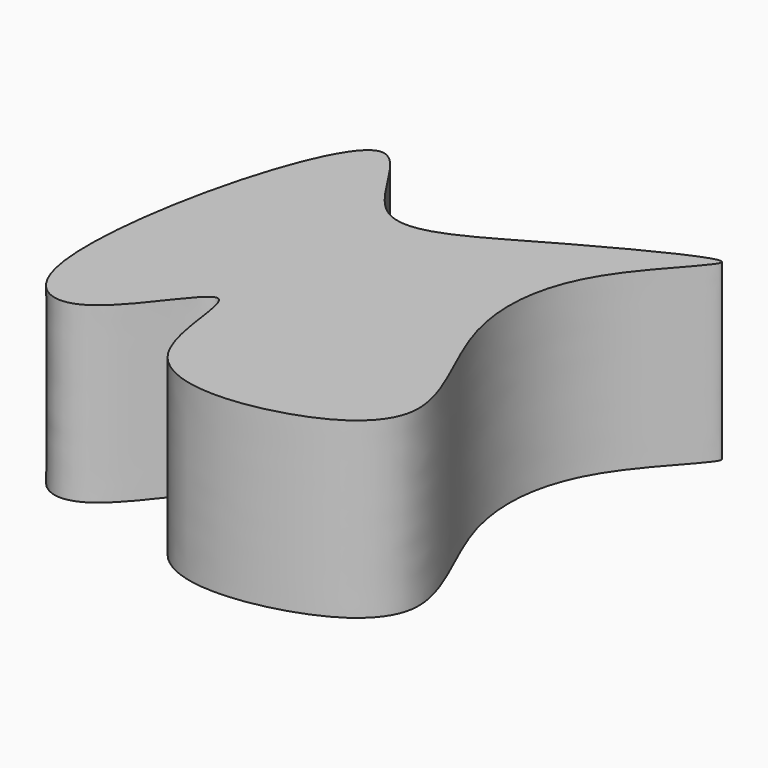
from build123d import *

# Parameters (mm, degrees)
F1_DEPTH = 50


with BuildPart() as f1:
    # F0 (on Top) → F1 (new body)
    with BuildSketch(Plane.XY):
        with BuildLine():
            add(Edge.make_bspline(
                [(-39.6801382303, 56.0800656676), (-51.2799219305, 53.0965431104), (-73.324921164, -38.0400060011), (-42.4092697074, -51.3525506171), (-17.9480560329, -5.0105357198), (-22.8602255293, -62.0895583543), (25.1590893789, -60.163335945), (54.983398552, -39.3620686399), (27.4711492446, 0.2186638161), (30.3538161883, 38.7976817241), (69.3910525631, 72.7072084483), (13.6543335188, 43.6778030088), (-21.5824623801, 21.0035409386), (-33.1465893421, 57.7605272168), (-39.6801382303, 56.0800656676)],
                knots=[0, 0, 0, 0, 0.1324919112, 0.1930969955, 0.2683492787, 0.343377968, 0.4296313694, 0.5034494089, 0.5908141442, 0.6786490436, 0.751317026, 0.8406273808, 0.9253742655, 1, 1, 1, 1], degree=3))
        make_face()
    extrude(amount=F1_DEPTH)


solid = f1.part
